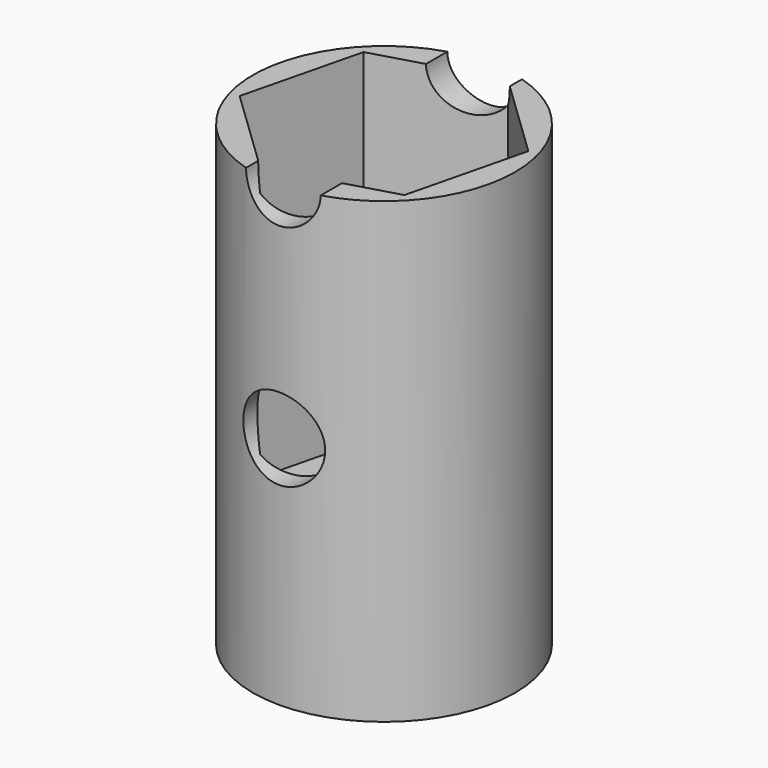
from build123d import *

# Parameters (mm, degrees)
F0_R      = 27.5
F1_DEPTH  = 25
F1_FACE_R = 27.5
F2_DEPTH  = 71.1
F4_DEPTH  = 71.7
F6_R      = 7.831507
F7_DEPTH  = 739.1
F8_R      = 8.573523
F9_DEPTH  = 106


with BuildPart() as f1:
    # F0 (on Top) → F1 (new body)
    with BuildSketch(Plane.XY):
        Circle(F0_R)
    extrude(amount=F1_DEPTH)

    # F1_face (on face) → F2 (join)
    with BuildSketch(Plane.XY.offset(25)):
        Circle(F1_FACE_R)
    extrude(amount=F2_DEPTH)

    # F3 (on face) → F4 (cut)
    with BuildSketch(Plane.XY.offset(96.1)):
        Polygon((-6.105004, -24.826832), (18.448165, -17.700505), (24.553169, 7.126327), (6.105004, 24.826832), (-18.448165, 17.700505), (-24.553169, -7.126327), align=None)
    extrude(amount=-F4_DEPTH, mode=Mode.SUBTRACT)

    # F6 (on offset) → F7 (cut)
    with BuildSketch(Plane.XZ.offset(50)):
        with Locations((0, 96.259676)):
            Circle(F6_R)
    extrude(amount=-F7_DEPTH, mode=Mode.SUBTRACT)

    # F8 (on offset) → F9 (cut)
    with BuildSketch(Plane.XZ.offset(50)):
        with Locations((0, 49.162731)):
            Circle(F8_R)
    extrude(amount=-F9_DEPTH, mode=Mode.SUBTRACT)


solid = f1.part
